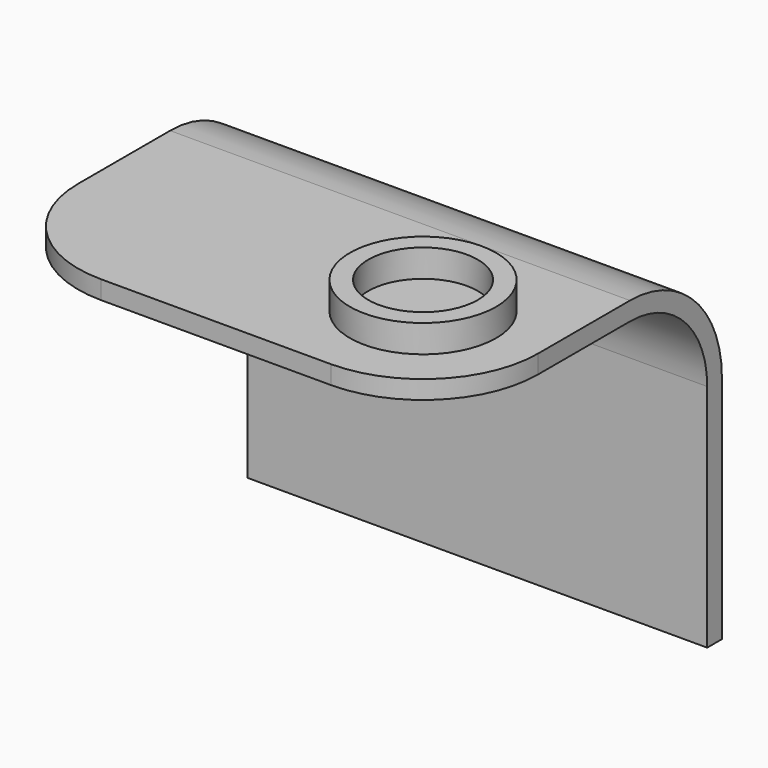
from build123d import *

# Parameters (mm, degrees)
F0_W     = 50
F0_H     = 25
F1_DEPTH = 2
F3_DEPTH = 50
F4_R     = 12.5
F5_R     = 7.95
F5_R_2   = 5.95
F6_DEPTH = 3


with BuildPart() as f1:
    # F0 (on Front) → F1 (new body)
    with BuildSketch(Plane.XZ):
        with Locations((-25, 12.5)):
            Rectangle(F0_W, F0_H)
    extrude(amount=F1_DEPTH)

    # F2 (on Right) → F3 (join, through all)
    with BuildSketch(Plane.YZ):
        with BuildLine():
            Line((-2, 25), (0, 25))
            ThreePointArc((0, 25), (-3.6611652352, 33.8388347648), (-12.5, 37.5))
            Line((-12.5, 37.5), (-37.5, 37.5))
            Line((-37.5, 37.5), (-37.5, 35.5))
            Line((-37.5, 35.5), (-12.5, 35.5))
            ThreePointArc((-12.5, 35.5), (-5.0753787975, 32.4246212025), (-2, 25))
        make_face()
    extrude(amount=-F3_DEPTH)

    # F4
    f4_edges = [f1.edges().sort_by_distance(p)[0] for p in [
        (-50, -37.5, 36.5),
        (0, -37.5, 36.5),
    ]]
    fillet(f4_edges, radius=F4_R)

    # F5 (on face) → F6 (join)
    with BuildSketch(Plane.XY.offset(37.5)):
        with Locations((-12.5, -25)):
            Circle(F5_R)
        with Locations((-12.5, -25)):
            Circle(F5_R_2, mode=Mode.SUBTRACT)
    extrude(amount=F6_DEPTH)


solid = f1.part
